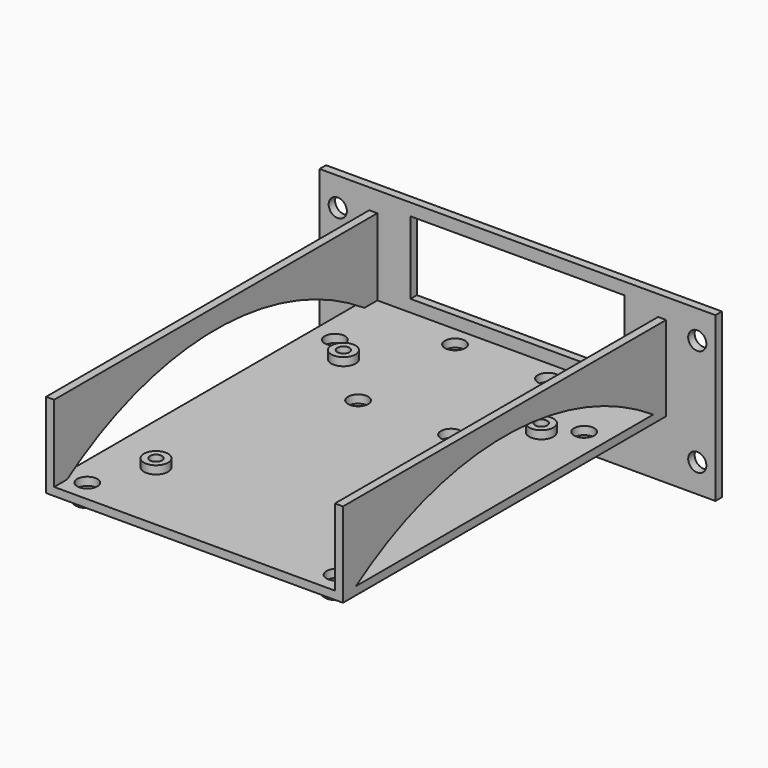
from build123d import *

# Parameters (mm, degrees)
SKETCH020_W     = 98
SKETCH020_H     = 40.5
SKETCH020_R     = 2.25
SKETCH020_W_2   = 53
SKETCH020_H_2   = 18
SKETCH020_W_3   = 20
SKETCH020_H_3   = 7
PAD006_DEPTH    = 2
PAD007_DEPTH    = 100
SKETCH024_R     = 2.5
POCKET010_DEPTH = 5
SKETCH026_R     = 2.5
POCKET011_DEPTH = 5
SKETCH028_R     = 3
SKETCH028_R_2   = 1.5
PAD009_DEPTH    = 2
POCKET012_DEPTH = 85.801
SKETCH027_R     = 3
SKETCH027_R_2   = 1.5
PAD010_DEPTH    = 2


with BuildPart() as part:
    # Sketch020 → Pad006 (new body)
    with BuildSketch(Plane.XZ):
        with Locations((56.7, 0)):
            Rectangle(SKETCH020_W, SKETCH020_H)
        with Locations((12.2, 13.25)):
            Circle(SKETCH020_R, mode=Mode.SUBTRACT)
        with Locations((12.2, -13.25)):
            Circle(SKETCH020_R, mode=Mode.SUBTRACT)
        with Locations((101.2, -13.25)):
            Circle(SKETCH020_R, mode=Mode.SUBTRACT)
        with Locations((101.2, 13.25)):
            Circle(SKETCH020_R, mode=Mode.SUBTRACT)
        with Locations((56.7, 8.25)):
            Rectangle(SKETCH020_W_2, SKETCH020_H_2, mode=Mode.SUBTRACT)
        with Locations((56.7, -13.75)):
            Rectangle(SKETCH020_W_3, SKETCH020_H_3, mode=Mode.SUBTRACT)
    extrude(amount=-PAD006_DEPTH)

    # Sketch022 (on Face17 of Pad006) → Pad007 (join)
    with BuildSketch(Plane.XZ):
        Polygon((22, -3.75), (91.5, -3.75), (91.5, 15.25), (93.5, 15.25), (93.5, -5.75), (20, -5.75), (20, -3.75), (20, 15.25), (22, 15.25), align=None)
    extrude(amount=PAD007_DEPTH)

    # Sketch024 (on Face20 of Pad007) → Pocket010 (cut)
    with BuildSketch(Plane(origin=(0, 0, -3.75), x_dir=(-1, 0, 0), z_dir=(0, 0, 1))):
        with Locations((-87.6, 94.6)):
            Circle(SKETCH024_R)
        with Locations((-25.89, 94.6)):
            Circle(SKETCH024_R)
        with Locations((-87.6, 18)):
            Circle(SKETCH024_R)
        with Locations((-25.89, 18)):
            Circle(SKETCH024_R)
        with Locations((-68.245, 5)):
            Circle(SKETCH024_R)
        with Locations((-45.245, 5)):
            Circle(SKETCH024_R)
        with Locations((-68.245, 35)):
            Circle(SKETCH024_R)
        with Locations((-45.245, 35)):
            Circle(SKETCH024_R)
    extrude(amount=-POCKET010_DEPTH, mode=Mode.SUBTRACT)

    # Sketch026 (on Face24 of Pocket010) → Pocket011 (cut)
    with BuildSketch(Plane(origin=(0, 0, -5.75), x_dir=(1, 0, 0), z_dir=(0, 0, -1))):
        with Locations((81.24, 81.3)):
            Circle(SKETCH026_R)
        with Locations((81.24, 23.3)):
            Circle(SKETCH026_R)
        with Locations((32.25, 81.3)):
            Circle(SKETCH026_R)
        with Locations((32.25, 23.3)):
            Circle(SKETCH026_R)
    extrude(amount=-POCKET011_DEPTH, mode=Mode.SUBTRACT)

    # Sketch028 → Pad009 (join)
    with BuildSketch(Plane(origin=(0, 0, -5.75), x_dir=(1, 0, 0), z_dir=(0, 0, -1))):
        with Locations((25.89, 94.6)):
            Circle(SKETCH028_R)
        with Locations((25.89, 94.6)):
            Circle(SKETCH028_R_2, mode=Mode.SUBTRACT)
        with Locations((87.6, 94.6)):
            Circle(SKETCH028_R)
        with Locations((87.6, 94.6)):
            Circle(SKETCH028_R_2, mode=Mode.SUBTRACT)
        with Locations((68.245, 35)):
            Circle(SKETCH028_R)
        with Locations((68.245, 35)):
            Circle(SKETCH028_R_2, mode=Mode.SUBTRACT)
        with Locations((45.245, 35)):
            Circle(SKETCH028_R)
        with Locations((45.245, 35)):
            Circle(SKETCH028_R_2, mode=Mode.SUBTRACT)
        with Locations((45.245, 5)):
            Circle(SKETCH028_R)
        with Locations((45.245, 5)):
            Circle(SKETCH028_R_2, mode=Mode.SUBTRACT)
        with Locations((68.245, 5)):
            Circle(SKETCH028_R)
        with Locations((68.245, 5)):
            Circle(SKETCH028_R_2, mode=Mode.SUBTRACT)
        with Locations((87.6, 18)):
            Circle(SKETCH028_R)
        with Locations((87.6, 18)):
            Circle(SKETCH028_R_2, mode=Mode.SUBTRACT)
        with Locations((25.89, 18)):
            Circle(SKETCH028_R)
        with Locations((25.89, 18)):
            Circle(SKETCH028_R_2, mode=Mode.SUBTRACT)
    extrude(amount=PAD009_DEPTH)

    # Sketch029 → Pocket012 (cut, through all)
    with BuildSketch(Plane(origin=(93.5, 0, 0), x_dir=(0, 0, 1), z_dir=(1, 0, 0))):
        with BuildLine():
            Line((-3.75, 96), (-3.75, 4))
            ThreePointArc((-3.75, 4), (10.25, 50), (-3.75, 96))
        make_face()
    extrude(amount=-POCKET012_DEPTH, mode=Mode.SUBTRACT)

    # Sketch027 (on Face20 of Pocket011) → Pad010 (join)
    with BuildSketch(Plane(origin=(0, 0, -3.75), x_dir=(-1, 0, 0), z_dir=(0, 0, 1))):
        with Locations((-81.24, 81.3)):
            Circle(SKETCH027_R)
        with Locations((-81.24, 81.3)):
            Circle(SKETCH027_R_2, mode=Mode.SUBTRACT)
        with Locations((-32.25, 81.3)):
            Circle(SKETCH027_R)
        with Locations((-32.25, 81.3)):
            Circle(SKETCH027_R_2, mode=Mode.SUBTRACT)
        with Locations((-81.24, 23.3)):
            Circle(SKETCH027_R)
        with Locations((-81.24, 23.3)):
            Circle(SKETCH027_R_2, mode=Mode.SUBTRACT)
        with Locations((-32.25, 23.3)):
            Circle(SKETCH027_R)
        with Locations((-32.25, 23.3)):
            Circle(SKETCH027_R_2, mode=Mode.SUBTRACT)
    extrude(amount=PAD010_DEPTH)


solid = part.part
